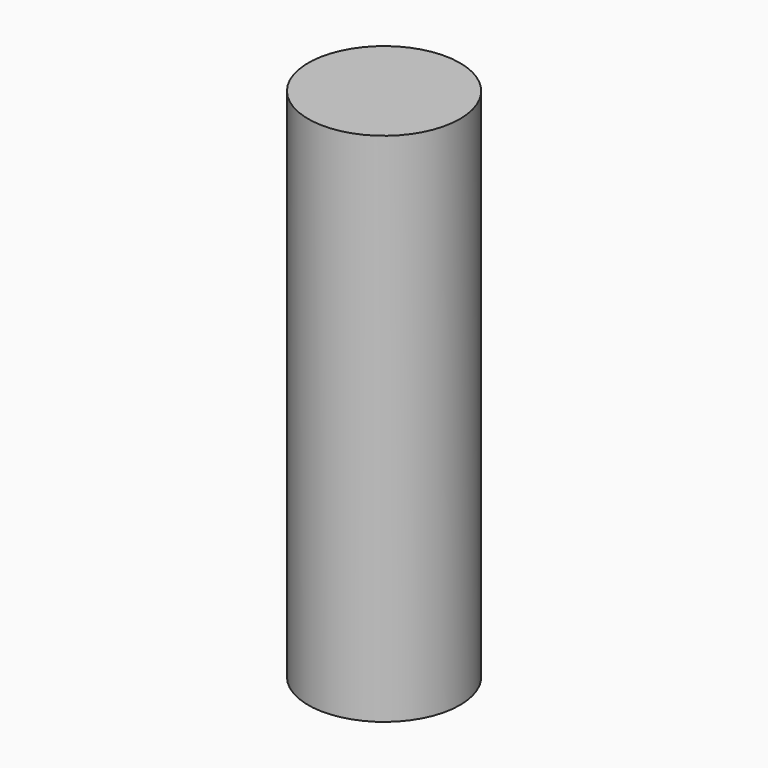
from build123d import *

# Parameters (mm, degrees)
SKETCH_R  = 2.5
PAD_DEPTH = 17


with BuildPart() as part:
    # Sketch → Pad (new body)
    with BuildSketch(Plane.XY):
        Circle(SKETCH_R)
    extrude(amount=PAD_DEPTH)


solid = part.part
